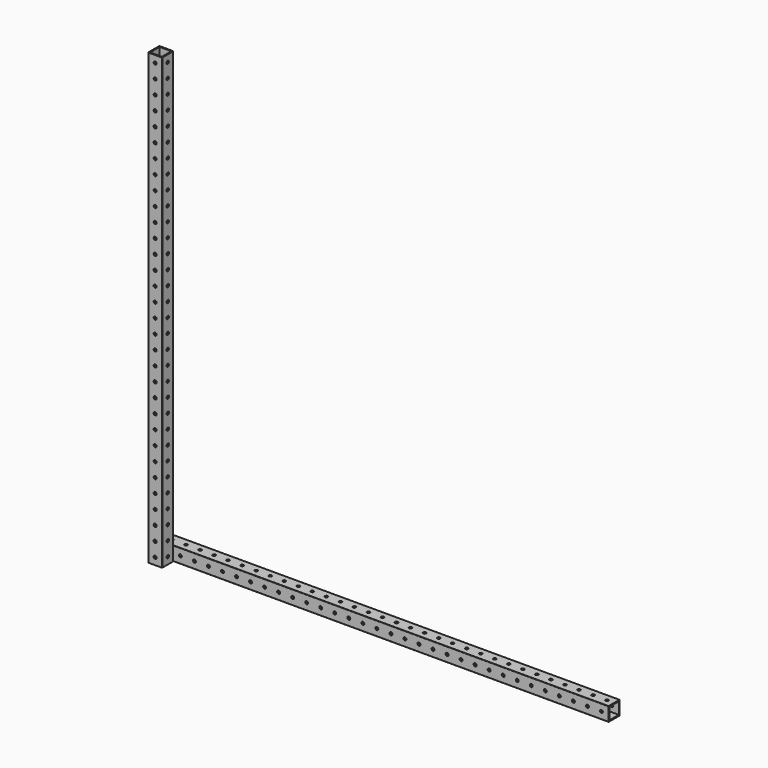
from build123d import *

# Parameters (mm, degrees)
BOX001_W                = 32.1
BOX001_H                = 32.1
BOX001_DEPTH            = 1219.2
CYLINDER_R              = 4
CYLINDER_DEPTH          = 38.1
CYLINDER_PITCH_ANGLE    = 90
ARRAY001_Z_COUNT        = 32
ARRAY001_Z_PITCH        = 38.1
CYLINDER001_R           = 4
CYLINDER001_DEPTH       = 38.1
CYLINDER001_ROLL_ANGLE  = 90
ARRAY_Z_COUNT           = 32
ARRAY_Z_PITCH           = 38.1
BOX_W                   = 38.1
BOX_H                   = 38.1
BOX_DEPTH               = 1219.2
CUT002_PITCH_ANGLE      = 90
FILLET_R                = 1
BOX003_W                = 32.1
BOX003_H                = 32.1
BOX003_DEPTH            = 1219.2
CYLINDER002_R           = 4
CYLINDER002_DEPTH       = 38.1
CYLINDER002_PITCH_ANGLE = 90
ARRAY003_Z_COUNT        = 32
ARRAY003_Z_PITCH        = 38.1
CYLINDER003_R           = 4
CYLINDER003_DEPTH       = 38.1
CYLINDER003_ROLL_ANGLE  = 90
ARRAY002_Z_COUNT        = 32
ARRAY002_Z_PITCH        = 38.1
BOX002_W                = 38.1
BOX002_H                = 38.1
BOX002_DEPTH            = 1219.2
FILLET001_R             = 1


with BuildPart() as cutout:
    # Box001 → Box001 (new body)
    with BuildSketch(Plane(origin=(3, 3, 0), x_dir=(1, 0, 0), z_dir=(0, 0, 1))):
        with Locations((16.05, 16.05)):
            Rectangle(BOX001_W, BOX001_H)
    extrude(amount=BOX001_DEPTH)


with BuildPart() as holes2:
    # Cylinder → Cylinder (new body)
    with BuildSketch(Plane.XY):
        Circle(CYLINDER_R)
    extrude(amount=CYLINDER_DEPTH)


with BuildPart() as holes2_1:
    # Cylinder pitch: moved
    add(holes2.part.rotate(Axis((0, 0, 0), (0, 1, 0)), CYLINDER_PITCH_ANGLE))


with BuildPart() as holes2_2:
    # Cylinder placement: moved
    add(holes2_1.part.moved(Location((0, 19.05, 19.05))))

    # Array001 Z: Holes2 ×32


with BuildPart() as holes2_3:
    add(holes2_2.part)
    with Locations(*[(0, 0, i * ARRAY001_Z_PITCH) for i in range(1, ARRAY001_Z_COUNT)]):
        add(holes2_2.part)


with BuildPart() as holes1:
    # Cylinder001 → Cylinder001 (new body)
    with BuildSketch(Plane.XY):
        Circle(CYLINDER001_R)
    extrude(amount=CYLINDER001_DEPTH)


with BuildPart() as holes1_1:
    # Cylinder001 roll: moved
    add(holes1.part.rotate(Axis((0, 0, 0), (1, 0, 0)), CYLINDER001_ROLL_ANGLE))


with BuildPart() as holes1_2:
    # Cylinder001 placement: moved
    add(holes1_1.part.moved(Location((19.05, 38.1, 19.05))))

    # Array Z: Holes1 ×32


with BuildPart() as holes1_3:
    add(holes1_2.part)
    with Locations(*[(0, 0, i * ARRAY_Z_PITCH) for i in range(1, ARRAY_Z_COUNT)]):
        add(holes1_2.part)


with BuildPart() as fillet_body:
    # Box → Box (new body)
    with BuildSketch(Plane.XY):
        with Locations((19.05, 19.05)):
            Rectangle(BOX_W, BOX_H)
    extrude(amount=BOX_DEPTH)

    # Cut: cut Holes1
    add(holes1_3.part, mode=Mode.SUBTRACT)

    # Cut001: cut Holes2
    add(holes2_3.part, mode=Mode.SUBTRACT)

    # Cut002: cut Cutout
    add(cutout.part, mode=Mode.SUBTRACT)


with BuildPart() as fillet_body_1:
    # Cut002 pitch: moved
    add(fillet_body.part.rotate(Axis((0, 0, 0), (0, 1, 0)), CUT002_PITCH_ANGLE))


with BuildPart() as fillet_body_2:
    # Cut002 placement: moved
    add(fillet_body_1.part.moved(Location((0, 38.1, 38.1))))

    # Fillet
    fillet_edges = [fillet_body_2.edges().sort_by_distance(p)[0] for p in [
        (609.6, 76.2, 0),
        (609.6, 38.1, 0),
        (609.6, 76.2, 38.1),
        (609.6, 38.1, 38.1),
    ]]
    fillet(fillet_edges, radius=FILLET_R)


with BuildPart() as cutout001:
    # Box003 → Box003 (new body)
    with BuildSketch(Plane(origin=(3, 3, 0), x_dir=(1, 0, 0), z_dir=(0, 0, 1))):
        with Locations((16.05, 16.05)):
            Rectangle(BOX003_W, BOX003_H)
    extrude(amount=BOX003_DEPTH)


with BuildPart() as holes004:
    # Cylinder002 → Cylinder002 (new body)
    with BuildSketch(Plane.XY):
        Circle(CYLINDER002_R)
    extrude(amount=CYLINDER002_DEPTH)


with BuildPart() as holes004_1:
    # Cylinder002 pitch: moved
    add(holes004.part.rotate(Axis((0, 0, 0), (0, 1, 0)), CYLINDER002_PITCH_ANGLE))


with BuildPart() as holes004_2:
    # Cylinder002 placement: moved
    add(holes004_1.part.moved(Location((0, 19.05, 19.05))))

    # Array003 Z: Holes004 ×32


with BuildPart() as holes004_3:
    add(holes004_2.part)
    with Locations(*[(0, 0, i * ARRAY003_Z_PITCH) for i in range(1, ARRAY003_Z_COUNT)]):
        add(holes004_2.part)


with BuildPart() as holes003:
    # Cylinder003 → Cylinder003 (new body)
    with BuildSketch(Plane.XY):
        Circle(CYLINDER003_R)
    extrude(amount=CYLINDER003_DEPTH)


with BuildPart() as holes003_1:
    # Cylinder003 roll: moved
    add(holes003.part.rotate(Axis((0, 0, 0), (1, 0, 0)), CYLINDER003_ROLL_ANGLE))


with BuildPart() as holes003_2:
    # Cylinder003 placement: moved
    add(holes003_1.part.moved(Location((19.05, 38.1, 19.05))))

    # Array002 Z: Holes003 ×32


with BuildPart() as holes003_3:
    add(holes003_2.part)
    with Locations(*[(0, 0, i * ARRAY002_Z_PITCH) for i in range(1, ARRAY002_Z_COUNT)]):
        add(holes003_2.part)


with BuildPart() as fillet001:
    # Box002 → Box002 (new body)
    with BuildSketch(Plane.XY):
        with Locations((19.05, 19.05)):
            Rectangle(BOX002_W, BOX002_H)
    extrude(amount=BOX002_DEPTH)

    # Cut003: cut Holes003
    add(holes003_3.part, mode=Mode.SUBTRACT)

    # Cut004: cut Holes004
    add(holes004_3.part, mode=Mode.SUBTRACT)

    # Cut005: cut Cutout001
    add(cutout001.part, mode=Mode.SUBTRACT)

    # Fillet001
    fillet001_edges = [fillet001.edges().sort_by_distance(p)[0] for p in [
        (38.1, 38.1, 609.6),
        (38.1, 0, 609.6),
        (0, 38.1, 609.6),
        (0, 0, 609.6),
    ]]
    fillet(fillet001_edges, radius=FILLET001_R)


solid = Compound([fillet_body_2.part, fillet001.part])
